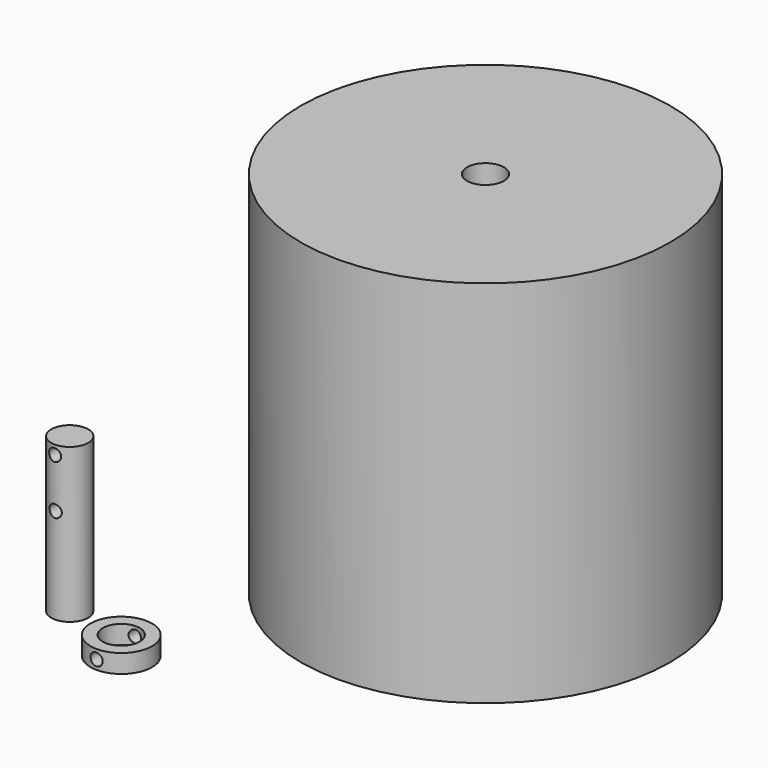
from build123d import *

# Parameters (mm, degrees)
F0_R      = 38.1
F1_DEPTH  = 76.2
F2_R      = 3.81
F3_DEPTH  = 12.7
F4_R      = 3.81
F5_DEPTH  = 31.75
F6_R      = 6.35
F7_DEPTH  = 3.81
F8_R      = 3.81
F9_DEPTH  = 5.08
F11_R     = 1.27
F12_DEPTH = 38.1
F13_R     = 1.27
F15_DEPTH = 38.1
F14_R     = 1.27
F16_DEPTH = 38.1


with BuildPart() as f1:
    # F0 (on Top) → F1 (new body)
    with BuildSketch(Plane.XY):
        Circle(F0_R)
    extrude(amount=F1_DEPTH)

    # F2 (on face) → F3 (cut)
    with BuildSketch(Plane.XY.offset(76.2)):
        Circle(F2_R)
    extrude(amount=-F3_DEPTH, mode=Mode.SUBTRACT)


with BuildPart() as f5:
    # F4 (on Top) → F5 (new body)
    with BuildSketch(Plane.XY):
        with Locations((-48.54162, -46.455853)):
            Circle(F4_R)
    extrude(amount=F5_DEPTH)

    # F13 (on offset) → F15 (cut)
    with BuildSketch(Plane.XZ.offset(76.2)):
        with Locations((-48.671335, 29.845)):
            Circle(F13_R)
    extrude(amount=-F15_DEPTH, mode=Mode.SUBTRACT)

    # F14 (on offset) → F16 (cut)
    with BuildSketch(Plane.XZ.offset(76.2)):
        with Locations((-48.565377, 19.685)):
            Circle(F14_R)
    extrude(amount=-F16_DEPTH, mode=Mode.SUBTRACT)


with BuildPart() as f7:
    # F6 (on Top) → F7 (new body)
    with BuildSketch(Plane.XY):
        with Locations((-32.308768, -53.471129)):
            Circle(F6_R)
    extrude(amount=F7_DEPTH)

    # F8 (on face) → F9 (cut)
    with BuildSketch(Plane.XY.offset(3.81)):
        with Locations((-32.308768, -53.471129)):
            Circle(F8_R)
    extrude(amount=-F9_DEPTH, mode=Mode.SUBTRACT)

    # F11 (on offset) → F12 (cut)
    with BuildSketch(Plane.XZ.offset(76.2)):
        with Locations((-32.402672, 1.905)):
            Circle(F11_R)
    extrude(amount=-F12_DEPTH, mode=Mode.SUBTRACT)


solid = Compound([f1.part, f5.part, f7.part])
